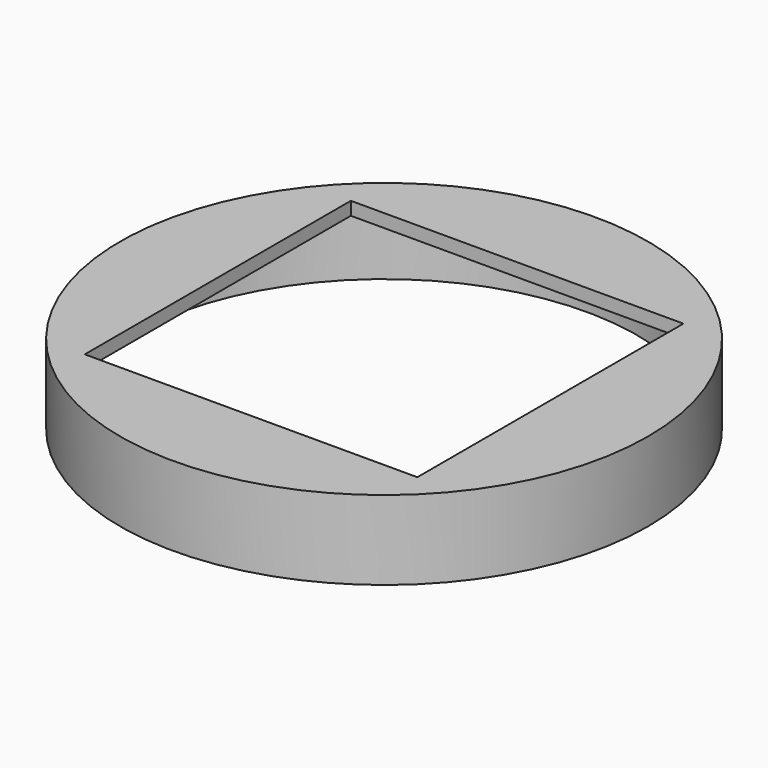
from build123d import *

# Parameters (mm, degrees)
F0_R     = 20
F0_W     = 25.2
F0_H     = 25.2
F1_DEPTH = 1
F2_R     = 20
F2_R_2   = 19.2
F3_DEPTH = 5


with BuildPart() as f1:
    # F0 (on Top) → F1 (new body)
    with BuildSketch(Plane.XY):
        Circle(F0_R)
        Rectangle(F0_W, F0_H, mode=Mode.SUBTRACT)
    extrude(amount=F1_DEPTH)

    # F2 (on face) → F3 (join)
    with BuildSketch(Plane(origin=(0, 0, 0), x_dir=(1, 0, 0), z_dir=(0, 0, -1))):
        Circle(F2_R)
        Circle(F2_R_2, mode=Mode.SUBTRACT)
    extrude(amount=F3_DEPTH)


solid = f1.part
